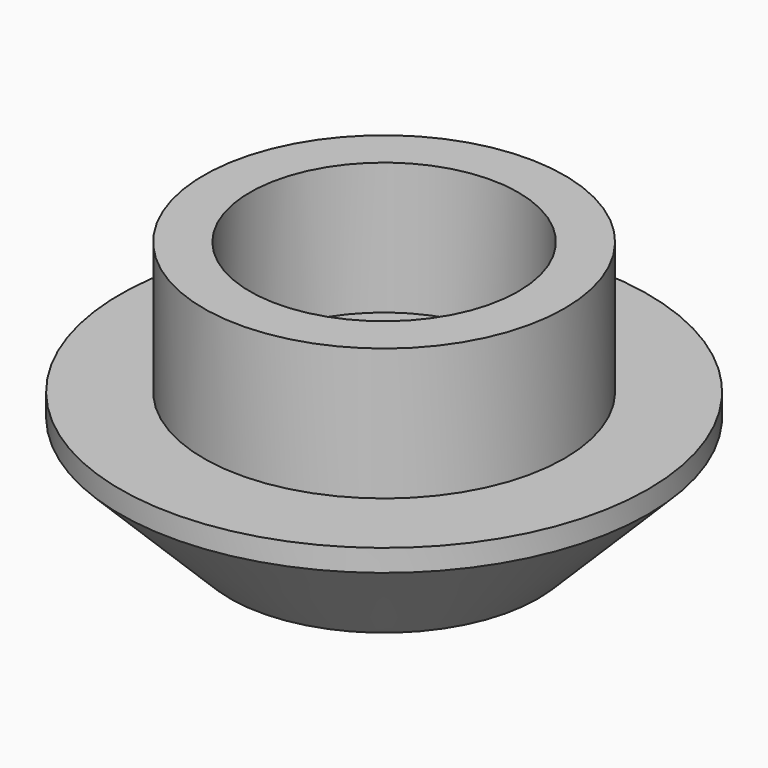
from build123d import *

# Parameters (mm, degrees)
SKETCH_R     = 4.1
SKETCH_R_2   = 3.05
PAD_DEPTH    = 3
SKETCH001_R  = 6
PAD001_DEPTH = 3
CHAMFER_SIZE = 2.5


with BuildPart() as part:
    # Sketch → Pad (new body)
    with BuildSketch(Plane.XY):
        Circle(SKETCH_R)
        Circle(SKETCH_R_2, mode=Mode.SUBTRACT)
    extrude(amount=PAD_DEPTH)

    # Sketch001 (on Face3 of Pad) → Pad001 (join)
    with BuildSketch(Plane(origin=(0, 0, 0), x_dir=(1, 0, 0), z_dir=(0, 0, -1))):
        Circle(SKETCH001_R)
    extrude(amount=PAD001_DEPTH)

    # Chamfer
    chamfer_edges = [part.edges().sort_by_distance(p)[0] for p in [
        (-6, 0, -3),
    ]]
    chamfer(chamfer_edges, length=CHAMFER_SIZE)


solid = part.part
